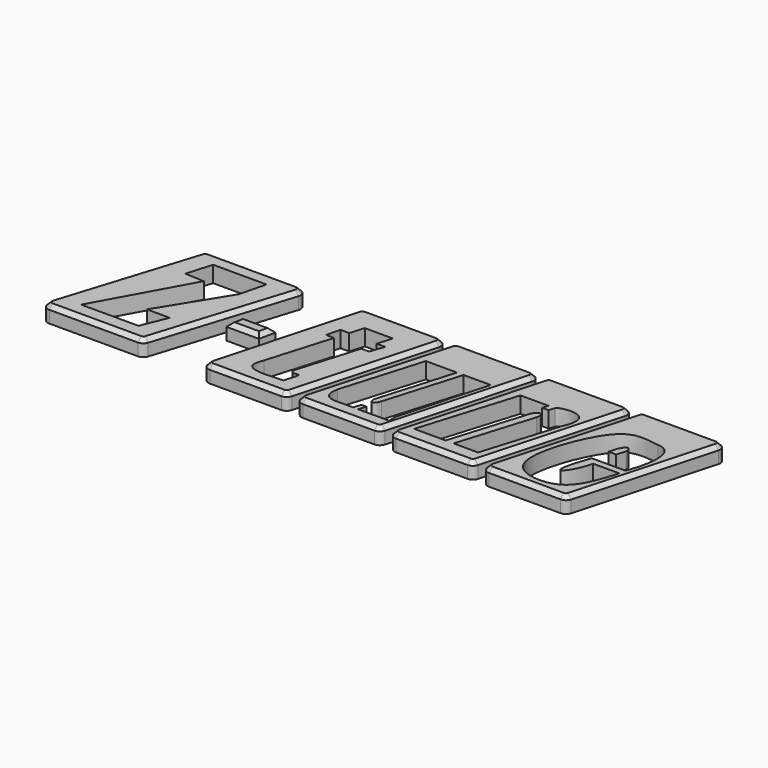
from build123d import *

# Parameters (mm, degrees)
F1_DEPTH  = 3.048
F2_SIZE   = 0.762
F2_2_SIZE = 0.762
F2_3_SIZE = 0.762
F2_4_SIZE = 0.762
F2_5_SIZE = 0.762
F3_SIZE   = 0.762


with BuildPart() as f1:
    # F0 (on Top) → F1 (new body)
    with BuildSketch(Plane.XY):
        with BuildLine():
            Line((-25.0890532473, 14.4718335941), (-41.7614626529, 14.4718335941))
            ThreePointArc((-41.7614626529, 14.4718335941), (-42.512406279, 14.2260326326), (-42.9726685423, 13.5837763822))
            Line((-42.9726685423, 13.5837763822), (-50.9680443047, -11.7709272891))
            ThreePointArc((-50.9680443047, -11.7709272891), (-50.7810374537, -12.9038137033), (-49.7568384153, -13.4228700772))
            Line((-49.7568384153, -13.4228700772), (-33.0905212296, -13.4228700772))
            ThreePointArc((-33.0905212296, -13.4228700772), (-32.3396895183, -13.1771511623), (-31.879398836, -12.5350775438))
            Line((-31.879398836, -12.5350775438), (-23.8779308536, 12.8196261276))
            ThreePointArc((-23.8779308536, 12.8196261276), (-24.0647721622, 13.9526653055), (-25.0890532473, 14.4718335941))
        make_face()
        Polygon((-36.8198230863, 6.7055355757), (-40.422078222, 6.8829827942), (-39.0084758401, 11.6421170533), (-28.9718843997, 11.6421170533), (-30.1970094442, 6.6945021972), (-37.7362333238, -5.5096140131), (-33.4482975304, -5.5096140131), (-35.4273431003, -10.3629892692), (-46.2178550661, -10.3629892692), align=None, mode=Mode.SUBTRACT)
    extrude(amount=F1_DEPTH)

    # F2
    f2_edges = [f1.edges().sort_by_distance(p)[0] for p in [
        (-46.970356, 0.906425, 3.048),
    ]]
    chamfer(f2_edges, length=F2_SIZE)


with BuildPart() as f1b:
    # F0 (on Top) → F1, piece 2 (new body)
    with BuildSketch(Plane.XY):
        with BuildLine():
            Line((1.1364399892, 14.6409369852), (-12.3144962326, 14.6409369852))
            ThreePointArc((-12.3144962326, 14.6409369852), (-13.0834274775, 14.381701419), (-13.538446397, 13.7098263404))
            Line((-13.538446397, 13.7098263404), (-20.6545521475, -11.9910659062))
            ThreePointArc((-20.6545521475, -11.9910659062), (-20.4413664169, -13.0988865063), (-19.4306019831, -13.5999552614))
            Line((-19.4306019831, -13.5999552614), (-5.9876766387, -13.5999552614))
            ThreePointArc((-5.9876766387, -13.5999552614), (-5.2188916994, -13.3408309793), (-4.763824627, -12.6691989104))
            Line((-4.763824627, -12.6691989104), (2.360292001, 13.0316933362))
            ThreePointArc((2.360292001, 13.0316933362), (2.1473157072, 14.1397219245), (1.1364399892, 14.6409369852))
        make_face()
        with BuildLine():
            Line((-11.4843789204, 7.1685037315), (-9.8308510587, 7.1685037315))
            Line((-9.8308510587, 7.1685037315), (-9.0400184372, 9.827654786))
            Line((-9.0400184372, 9.827654786), (-3.7450192031, 9.827654786))
            Line((-3.7450192031, 9.827654786), (-4.5751406015, 7.0363963933))
            Line((-4.5751406015, 7.0363963933), (-2.9614619597, 7.0363963933))
            Line((-2.9614619597, 7.0363963933), (-3.8845413631, 4.4134092516))
            Line((-3.8845413631, 4.4134092516), (-5.3552180604, 4.4134092516))
            Line((-5.3552180604, 4.4134092516), (-8.699147167, -6.8304524306))
            add(Edge.make_bspline(
                [(-8.699147167, -6.8304524306), (-9.1073522344, -7.9852733761), (-7.9582799226, -7.9852733761), (-7.2054401971, -7.7871573158)],
                knots=[0, 0, 0, 0, 1.7738220737, 1.7738220737, 1.7738220737, 1.7738220737], degree=3))
            Line((-7.2054401971, -7.7871573158), (-7.9582799226, -10.6400251389))
            Line((-7.9582799226, -10.6400251389), (-10.3752929717, -10.7588944957))
            add(Edge.make_bspline(
                [(-14.1811487897, -7.4592423733), (-14.9086616635, -9.3030063543), (-15.3281874955, -11.0362563282), (-10.3752929717, -10.7588944957)],
                knots=[0, 0, 0, 0, 5.0370867211, 5.0370867211, 5.0370867211, 5.0370867211], degree=3))
            Line((-14.1811487897, -7.4592423733), (-10.6041527981, 4.5682997443))
            Line((-10.6041527981, 4.5682997443), (-12.1228760108, 4.5682997443))
            Line((-12.1228760108, 4.5682997443), (-11.4843789204, 7.1685037315))
        make_face(mode=Mode.SUBTRACT)
    extrude(amount=F1_DEPTH)

    # F2#2
    f2_2_edges = [f1b.edges().sort_by_distance(p)[0] for p in [
        (-17.096499, 0.85938, 3.048),
    ]]
    chamfer(f2_2_edges, length=F2_2_SIZE)


with BuildPart() as f1c:
    # F0 (on Top) → F1, piece 3 (new body)
    with BuildSketch(Plane.XY):
        with BuildLine():
            Line((12.744075373, -12.6691989104), (19.868192001, 13.0316933362))
            ThreePointArc((19.868192001, 13.0316933362), (19.6552157072, 14.1397219245), (18.6443399892, 14.6409369852))
            Line((18.6443399892, 14.6409369852), (5.1934037674, 14.6409369852))
            ThreePointArc((5.1934037674, 14.6409369852), (4.4244725225, 14.381701419), (3.969453603, 13.7098263404))
            Line((3.969453603, 13.7098263404), (-3.1466521475, -11.9910659062))
            ThreePointArc((-3.1466521475, -11.9910659062), (-2.9334664169, -13.0988865063), (-1.9227019831, -13.5999552614))
            Line((-1.9227019831, -13.5999552614), (11.5202233613, -13.5999552614))
            ThreePointArc((11.5202233613, -13.5999552614), (12.2890083006, -13.3408309793), (12.744075373, -12.6691989104))
        make_face()
        with BuildLine():
            Line((0, -7.9325800762), (4.5120068826, 7.2430898435))
            Line((4.5120068826, 7.2430898435), (10.3762345389, 7.2430898435))
            Line((10.3762345389, 7.2430898435), (6.211830138, -6.76345497))
            add(Edge.make_bspline(
                [(6.211830138, -6.76345497), (5.8510997333, -8.0105224624), (7.0307008613, -8.4137034659), (7.4152336014, -6.8456883043)],
                knots=[0, 0, 0, 0, 1.2062098561, 1.2062098561, 1.2062098561, 1.2062098561], degree=3))
            Line((7.4152336014, -6.8456883043), (11.6050798136, 7.2464274186))
            Line((11.6050798136, 7.2464274186), (16.7287807602, 7.2464274186))
            Line((16.7287807602, 7.2464274186), (12.1426898986, -9.2983083321))
            Line((12.1426898986, -9.2983083321), (12.1426898986, -10.9325796366))
            Line((12.1426898986, -10.9325796366), (6.3267708756, -10.9325796366))
            Line((6.3267708756, -10.9325796366), (6.7810599083, -9.5323212838))
            Line((6.7810599083, -9.5323212838), (5.8200602741, -9.5323212838))
            Line((5.8200602741, -9.5323212838), (5.3657712415, -10.9325796366))
            Line((5.3657712415, -10.9325796366), (2.0917099901, -10.9325796366))
            add(Edge.make_bspline(
                [(0, -7.9325800762), (-0.4000651243, -9.978543967), (0.3856712137, -10.9501741827), (2.0917099901, -10.9325796366)],
                knots=[0, 0, 0, 0, 3.6572186214, 3.6572186214, 3.6572186214, 3.6572186214], degree=3))
        make_face(mode=Mode.SUBTRACT)
    extrude(amount=F1_DEPTH)

    # F2#3
    f2_3_edges = [f1c.edges().sort_by_distance(p)[0] for p in [
        (0.411401, 0.85938, 3.048),
    ]]
    chamfer(f2_3_edges, length=F2_3_SIZE)


with BuildPart() as f1d:
    # F0 (on Top) → F1, piece 4 (new body)
    with BuildSketch(Plane.XY):
        with BuildLine():
            Line((30.251975373, -12.6691989104), (37.376092001, 13.0316933362))
            ThreePointArc((37.376092001, 13.0316933362), (37.1631157072, 14.1397219245), (36.1522399892, 14.6409369852))
            Line((36.1522399892, 14.6409369852), (22.7013037674, 14.6409369852))
            ThreePointArc((22.7013037674, 14.6409369852), (21.9323725225, 14.381701419), (21.477353603, 13.7098263404))
            Line((21.477353603, 13.7098263404), (14.3612478525, -11.9910659062))
            ThreePointArc((14.3612478525, -11.9910659062), (14.5744335831, -13.0988865063), (15.5851980169, -13.5999552614))
            Line((15.5851980169, -13.5999552614), (29.0281233613, -13.5999552614))
            ThreePointArc((29.0281233613, -13.5999552614), (29.7969083006, -13.3408309793), (30.251975373, -12.6691989104))
        make_face()
        with BuildLine():
            Line((22.5386843085, -10.6574241072), (16.6415888816, -10.6574241072))
            Line((16.6415888816, -10.6574241072), (22.1828538924, 7.3936632834))
            Line((22.1828538924, 7.3936632834), (27.4722408503, 7.3936632834))
            Line((27.4722408503, 7.3936632834), (27.1393503618, 6.3092474888))
            Line((27.1393503618, 6.3092474888), (28.3502135426, 6.3092474888))
            Line((28.3502135426, 6.3092474888), (28.6831040311, 7.3936632834))
            add(Edge.make_bspline(
                [(28.6831040311, 7.3936632834), (28.3295884728, 7.9642767087), (36.0117964447, 9.9373022094), (32.9857750981, 3.4035767894)],
                knots=[0, 0, 0, 0, 5.8680293575, 5.8680293575, 5.8680293575, 5.8680293575], degree=3))
            Line((32.9857750981, 3.4035767894), (28.6693740636, -10.6574241072))
            Line((28.6693740636, -10.6574241072), (24.0531020613, -10.6574241072))
            Line((24.0531020613, -10.6574241072), (28.3695030957, 3.4035767894))
            add(Edge.make_bspline(
                [(28.3695030957, 3.4035767894), (28.7138465792, 4.8506911844), (27.6636648923, 5.4860953242), (26.9031193603, 3.5600512123)],
                knots=[0, 0, 0, 0, 1.4747086168, 1.4747086168, 1.4747086168, 1.4747086168], degree=3))
            Line((26.9031193603, 3.5600512123), (22.5386843085, -10.6574241072))
        make_face(mode=Mode.SUBTRACT)
    extrude(amount=F1_DEPTH)

    # F2#4
    f2_4_edges = [f1d.edges().sort_by_distance(p)[0] for p in [
        (17.919301, 0.85938, 3.048),
    ]]
    chamfer(f2_4_edges, length=F2_4_SIZE)


with BuildPart() as f1e:
    # F0 (on Top) → F1, piece 5 (new body)
    with BuildSketch(Plane.XY):
        with BuildLine():
            Line((47.759875373, -12.6691989104), (54.883992001, 13.0316933362))
            ThreePointArc((54.883992001, 13.0316933362), (54.6710157072, 14.1397219245), (53.6601399892, 14.6409369852))
            Line((53.6601399892, 14.6409369852), (40.2092037674, 14.6409369852))
            ThreePointArc((40.2092037674, 14.6409369852), (39.4402725225, 14.381701419), (38.985253603, 13.7098263404))
            Line((38.985253603, 13.7098263404), (31.8691478525, -11.9910659062))
            ThreePointArc((31.8691478525, -11.9910659062), (32.0823335831, -13.0988865063), (33.0930980169, -13.5999552614))
            Line((33.0930980169, -13.5999552614), (46.5360233613, -13.5999552614))
            ThreePointArc((46.5360233613, -13.5999552614), (47.3048083006, -13.3408309793), (47.759875373, -12.6691989104))
        make_face()
        with BuildLine():
            add(Edge.make_bspline(
                [(49.2013469338, -1.6606246354), (49.4405217469, -1.04906864), (52.6499971747, 7.430287078), (47.7936528623, 7.7205519192)],
                knots=[0, 0, 0, 0, 9.4862045175, 9.4862045175, 9.4862045175, 9.4862045175], degree=3))
            Line((49.2013469338, -1.6606246354), (42.8172163665, -1.6606246354))
            add(Edge.make_bspline(
                [(42.8172163665, -1.6606246354), (39.3607206643, -11.3683706149), (43.2745665312, -6.8541080691), (44.0637804568, -2.8957889881)],
                knots=[0, 0, 0, 0, 1.7548655246, 1.7548655246, 1.7548655246, 1.7548655246], degree=3))
            Line((44.0637804568, -2.8957889881), (49.0227974951, -2.8957889881))
            add(Edge.make_bspline(
                [(47.7936528623, 7.7205519192), (45.9337718263, 8.0277754372), (42.1079144997, 8.6525852111), (37.9899398879, 3.1246449245), (34.9417994807, -6.1319757801), (36.6533328855, -11.864093404), (46.1103999123, -12.5231214055), (47.9768092453, -6.2667062201), (49.0227974951, -2.8957889881)],
                knots=[0, 0, 0, 0, 0.1442277167, 0.30212604, 0.499889294, 0.6401093177, 0.8074911076, 1, 1, 1, 1], degree=3))
        make_face(mode=Mode.SUBTRACT)
    extrude(amount=F1_DEPTH)

    # F2#5
    f2_5_edges = [f1e.edges().sort_by_distance(p)[0] for p in [
        (35.427201, 0.85938, 3.048),
    ]]
    chamfer(f2_5_edges, length=F2_5_SIZE)


with BuildPart() as f1f:
    # F0 (on Top) → F1, piece 6 (new body)
    with BuildSketch(Plane.XY):
        with BuildLine():
            Line((43.9643361965, 3.1850715517), (43.4461943805, 1.5011094511))
            Line((43.4461943805, 1.5011094511), (44.8928438127, 1.5011094511))
            Line((44.8928438127, 1.5011094511), (45.3960262239, 3.1364534516))
            add(Edge.make_bspline(
                [(43.9643361965, 3.1850715517), (44.8219440877, 4.85046627), (45.3717038035, 4.2840433307), (45.3960262239, 3.1364534516)],
                knots=[0, 0, 0, 0, 1.4325152894, 1.4325152894, 1.4325152894, 1.4325152894], degree=3))
        make_face()
    extrude(amount=F1_DEPTH)


with BuildPart() as f1g:
    # F0 (on Top) → F1, piece 7 (new body)
    with BuildSketch(Plane.XY):
        Polygon((-19.2726198584, 1.6834795242), (-25.3967605531, 1.6834795242), (-26.0793864727, -1.407762873), (-19.955245778, -1.407762873), align=None)
    extrude(amount=F1_DEPTH)

    # F3
    f3_edges = [f1g.edges().sort_by_distance(p)[0] for p in [
        (-23.017316, -1.407763, 3.048),
        (-25.738074, 0.137858, 3.048),
        (-19.613933, 0.137858, 3.048),
        (-22.33469, 1.68348, 3.048),
    ]]
    chamfer(f3_edges, length=F3_SIZE)


solid = Compound([f1.part, f1b.part, f1c.part, f1d.part, f1e.part, f1f.part, f1g.part])
